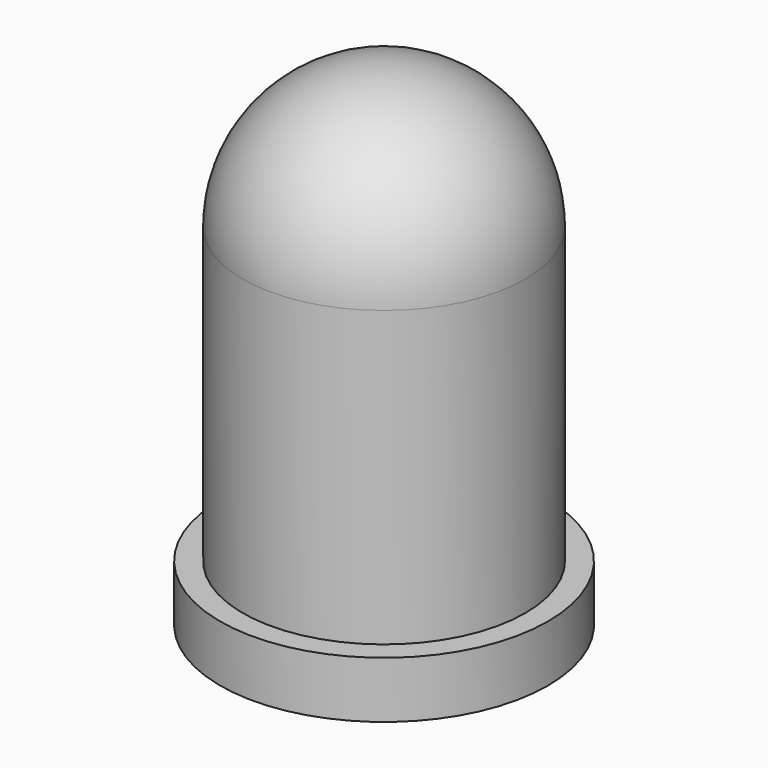
from build123d import *

# Parameters (mm, degrees)
CYLINDER_R        = 2.9
CYLINDER_DEPTH    = 1
SPHERE_ANGLE      = 180
SPHERE_ROLL_ANGLE = 90
CYLINDER001_R     = 2.5
CYLINDER001_DEPTH = 6.2


with BuildPart() as cilindro001:
    # Cylinder → Cylinder (new body)
    with BuildSketch(Plane.XY):
        Circle(CYLINDER_R)
    extrude(amount=CYLINDER_DEPTH)


with BuildPart() as obj1:
    # Sphere → Sphere (revolve)
    with BuildSketch(Plane.XZ):
        with BuildLine():
            ThreePointArc((0, -2.5), (2.5, 0), (0, 2.5))
            Line((0, 2.5), (0, -2.5))
        make_face()
    revolve(axis=Axis((0, 0, 0), (0, 0, 1)), revolution_arc=SPHERE_ANGLE)


with BuildPart() as obj1_1:
    # Sphere roll: moved
    add(obj1.part.rotate(Axis((0, 0, 0), (1, 0, 0)), SPHERE_ROLL_ANGLE))


with BuildPart() as obj1_2:
    # Sphere placement: moved
    add(obj1_1.part.moved(Location((0, 0, 6.2))))


with BuildPart() as obj2:
    # Cylinder001 → Cylinder001 (new body)
    with BuildSketch(Plane.XY):
        Circle(CYLINDER001_R)
    extrude(amount=CYLINDER001_DEPTH)

    # Fusion005: union Cilindro001, obj1
    add(cilindro001.part)
    add(obj1_2.part)


with BuildPart() as obj2_1:
    # Fusion005 placement: moved
    add(obj2.part.moved(Location((6, 2.8, 1))))


solid = obj2_1.part
